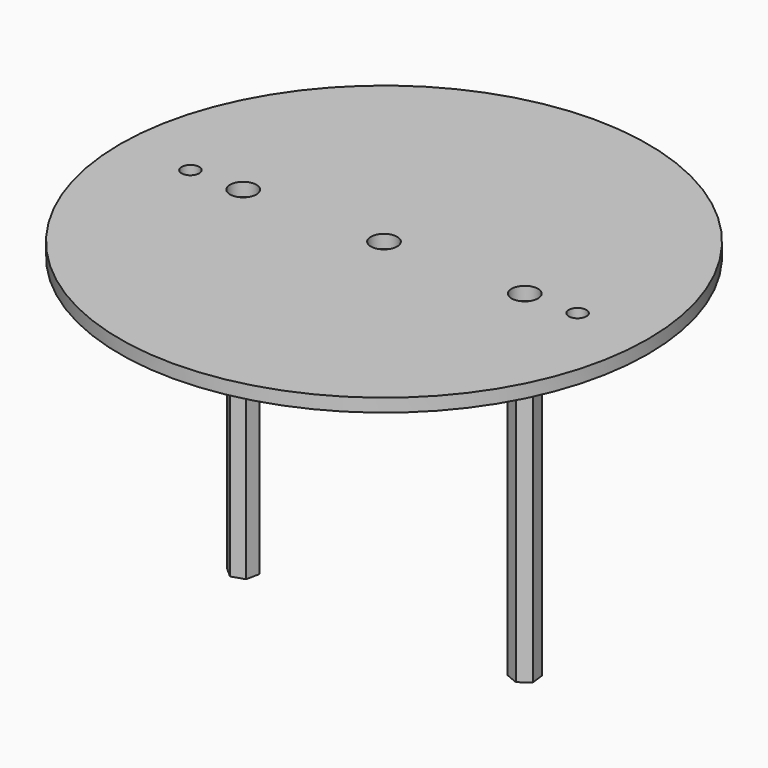
from build123d import *

# Parameters (mm, degrees)
SKETCH265_R     = 60
PAD106_DEPTH    = 3
SKETCH266_R     = 3
SKETCH266_R_2   = 2
POCKET129_DEPTH = 3
SKETCH267_R     = 1.5
POCKET130_DEPTH = 13.001
PAD111_DEPTH    = 73.4


with BuildPart() as part:
    # Sketch005 → Revolution (revolve)
    with BuildSketch(Plane.XZ):
        with BuildLine():
            add(Edge.make_bspline(
                [(0, 112), (-7.388889, 112), (-19, 122)],
                knots=[0, 0, 0, 1.023749, 1.023749, 1.023749], degree=2, weights=[1, 1.133893, 1]))
            Line((-19, 122), (0, 122))
            Line((0, 122), (0, 112))
        make_face()
    revolve(axis=Axis((0, 0, 0), (0, 0, 1)))

    # Sketch265 (on Face2 of Revolution) → Pad106 (new body)
    with BuildSketch(Plane(origin=(0, 0, 122), x_dir=(-1, 0, 0), z_dir=(0, 0, 1))):
        Circle(SKETCH265_R)
    extrude(amount=PAD106_DEPTH)

    # Sketch266 (on Face3 of Pad106) → Pocket129 (cut)
    with BuildSketch(Plane(origin=(0, 0, 125), x_dir=(-1, 0, 0), z_dir=(0, 0, 1))):
        Circle(SKETCH266_R)
        with Locations((-32, 0)):
            Circle(SKETCH266_R)
        with Locations((32, 0)):
            Circle(SKETCH266_R)
        with Locations((-44, 0)):
            Circle(SKETCH266_R_2)
        with Locations((44, 0)):
            Circle(SKETCH266_R_2)
    extrude(amount=-POCKET129_DEPTH, mode=Mode.SUBTRACT)

    # Sketch267 (on Face3 of Pocket129) → Pocket130 (cut, through all)
    with BuildSketch(Plane(origin=(0, 0, 125), x_dir=(-1, 0, 0), z_dir=(0, 0, 1))):
        Circle(SKETCH267_R)
    extrude(amount=-POCKET130_DEPTH, mode=Mode.SUBTRACT)

    # Sketch274 (on Face2 of Pocket130) → Pad111 (join)
    with BuildSketch(Plane(origin=(0, 0, 122), x_dir=(1, 0, 0), z_dir=(0, 0, -1))):
        Polygon((-29.10452, -0.958487), (-29.722186, 2.028316), (-32.617666, 2.986802), (-34.89548, 0.958487), (-34.277814, -2.028316), (-31.382334, -2.986802), align=None)
        Polygon((34.433148, -1.839101), (34.809282, 1.187617), (32.376134, 3.026718), (29.566852, 1.839101), (29.190718, -1.187617), (31.623866, -3.026718), align=None)
    extrude(amount=PAD111_DEPTH)


with BuildPart() as part_1:
    # Body001 placement: moved
    add(part.part.moved(Location((0, 0, -0.6))))


solid = part_1.part
